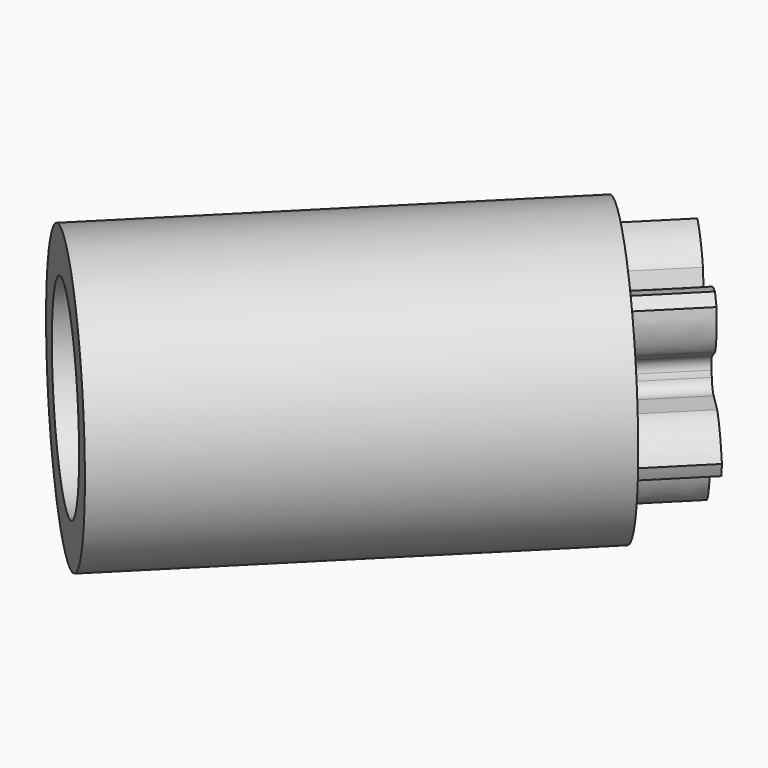
from build123d import *

# Parameters (mm, degrees)
PAD032_DEPTH            = 1.5
SKETCH052_R             = 3
PAD033_DEPTH            = 1.5
SKETCH053_R             = 3
SKETCH053_R_2           = 2.1
PAD034_DEPTH            = 8
BODY020_PITCH_ANGLE     = 90
BODY020_PLACEMENT_ANGLE = 45


with BuildPart() as part:
    # InvoluteGear005 → Pad032 (new body)
    with BuildSketch(Plane.XY):
        with BuildLine():
            Line((1.110631, -0.379257), (1.611002, -0.549274))
            add(Edge.make_bspline(
                [(1.611002, -0.549274), (1.657084, -0.555348), (1.841436, -0.576411), (2.183492, -0.491872), (2.515793, -0.147021)],
                knots=[0, 0, 0, 0, 0, 1, 1, 1, 1, 1], degree=4))
            ThreePointArc((2.515793, -0.147021), (2.520042, 0.0016), (2.515519, 0.150213))
            add(Edge.make_bspline(
                [(2.515519, 0.150213), (2.183492, 0.491872), (1.841436, 0.576411), (1.657084, 0.555348), (1.611002, 0.549274)],
                knots=[0, 0, 0, 0, 0, 1, 1, 1, 1, 1], degree=4))
            Line((1.611002, 0.549274), (1.110631, 0.379257))
            ThreePointArc((1.110631, 0.379257), (0.918725, 0.36265), (0.763436, 0.476619))
            ThreePointArc((0.763436, 0.476619), (0.728115, 0.529007), (0.689206, 0.578787))
            ThreePointArc((0.689206, 0.578787), (0.628802, 0.761694), (0.703899, 0.939076))
            Line((0.703899, 0.939076), (1.020218, 1.362419))
            add(Edge.make_bspline(
                [(1.020218, 1.362419), (1.040234, 1.404369), (1.117234, 1.573189), (1.142534, 1.924628), (0.917248, 2.34723)],
                knots=[0, 0, 0, 0, 0, 1, 1, 1, 1, 1], degree=4))
            ThreePointArc((0.917248, 2.34723), (0.777214, 2.397197), (0.634477, 2.438819))
            add(Edge.make_bspline(
                [(0.634477, 2.438819), (0.206938, 2.228621), (0.020836, 1.92943), (-0.0161, 1.747593), (-0.024564, 1.701889)],
                knots=[0, 0, 0, 0, 0, 1, 1, 1, 1, 1], degree=4))
            Line((-0.024564, 1.701889), (-0.017491, 1.17347))
            ThreePointArc((-0.017491, 1.17347), (-0.060999, 0.985824), (-0.217377, 0.873354))
            ThreePointArc((-0.217377, 0.873354), (-0.278115, 0.855951), (-0.337483, 0.834329))
            ThreePointArc((-0.337483, 0.834329), (-0.530104, 0.833403), (-0.675598, 0.959638))
            Line((-0.675598, 0.959638), (-0.980473, 1.391296))
            add(Edge.make_bspline(
                [(-0.980473, 1.391296), (-1.014184, 1.423295), (-1.150947, 1.548695), (-1.477367, 1.681357), (-1.948903, 1.597689)],
                knots=[0, 0, 0, 0, 0, 1, 1, 1, 1, 1], degree=4))
            ThreePointArc((-1.948903, 1.597689), (-2.039698, 1.479949), (-2.123391, 1.35706))
            add(Edge.make_bspline(
                [(-2.123391, 1.35706), (-2.055597, 0.885492), (-1.828559, 0.616043), (-1.667035, 0.524724), (-1.626183, 0.502551)],
                knots=[0, 0, 0, 0, 0, 1, 1, 1, 1, 1], degree=4))
            Line((-1.626183, 0.502551), (-1.121441, 0.345987))
            ThreePointArc((-1.121441, 0.345987), (-0.956425, 0.246623), (-0.897782, 0.063143))
            ThreePointArc((-0.897782, 0.063143), (-0.9, 0), (-0.897782, -0.063143))
            ThreePointArc((-0.897782, -0.063143), (-0.956425, -0.246623), (-1.121441, -0.345987))
            Line((-1.121441, -0.345987), (-1.626183, -0.502551))
            add(Edge.make_bspline(
                [(-1.626183, -0.502551), (-1.667035, -0.524724), (-1.828559, -0.616043), (-2.055597, -0.885492), (-2.121736, -1.359804)],
                knots=[0, 0, 0, 0, 0, 1, 1, 1, 1, 1], degree=4))
            ThreePointArc((-2.121736, -1.359804), (-2.037816, -1.482538), (-1.946804, -1.60011))
            add(Edge.make_bspline(
                [(-1.946804, -1.60011), (-1.477367, -1.681357), (-1.150947, -1.548695), (-1.014184, -1.423295), (-0.980473, -1.391296)],
                knots=[0, 0, 0, 0, 0, 1, 1, 1, 1, 1], degree=4))
            Line((-0.980473, -1.391296), (-0.675598, -0.959638))
            ThreePointArc((-0.675598, -0.959638), (-0.530104, -0.833403), (-0.337483, -0.834329))
            ThreePointArc((-0.337483, -0.834329), (-0.278115, -0.855951), (-0.217377, -0.873354))
            ThreePointArc((-0.217377, -0.873354), (-0.060999, -0.985824), (-0.017491, -1.17347))
            Line((-0.017491, -1.17347), (-0.024564, -1.701889))
            add(Edge.make_bspline(
                [(-0.024564, -1.701889), (-0.0161, -1.747593), (0.020836, -1.92943), (0.206938, -2.228621), (0.637598, -2.438094)],
                knots=[0, 0, 0, 0, 0, 1, 1, 1, 1, 1], degree=4))
            ThreePointArc((0.637598, -2.438094), (0.780258, -2.396208), (0.9202, -2.345982))
            add(Edge.make_bspline(
                [(0.9202, -2.345982), (1.142534, -1.924628), (1.117234, -1.573189), (1.040234, -1.404369), (1.020218, -1.362419)],
                knots=[0, 0, 0, 0, 0, 1, 1, 1, 1, 1], degree=4))
            Line((1.020218, -1.362419), (0.703899, -0.939076))
            ThreePointArc((0.703899, -0.939076), (0.628802, -0.761694), (0.689206, -0.578787))
            ThreePointArc((0.689206, -0.578787), (0.728115, -0.529007), (0.763436, -0.476619))
            ThreePointArc((0.763436, -0.476619), (0.918725, -0.36265), (1.110631, -0.379257))
        make_face()
    extrude(amount=PAD032_DEPTH)

    # Sketch052 (on Face41 of Pad032) → Pad033 (join)
    with BuildSketch(Plane(origin=(0, 0, 0), x_dir=(1, 0, 0), z_dir=(0, 0, -1))):
        Circle(SKETCH052_R)
    extrude(amount=PAD033_DEPTH)

    # Sketch053 (on Face3 of Pad033) → Pad034 (join)
    with BuildSketch(Plane(origin=(0, 0, -1.5), x_dir=(1, 0, 0), z_dir=(0, 0, -1))):
        Circle(SKETCH053_R)
        Circle(SKETCH053_R_2, mode=Mode.SUBTRACT)
    extrude(amount=PAD034_DEPTH)


with BuildPart() as part_1:
    # Body020 pitch: moved
    add(part.part.rotate(Axis((0, 0, 0), (0, 1, 0)), BODY020_PITCH_ANGLE))


with BuildPart() as part_2:
    # Body020 placement: moved
    add(part_1.part.moved(Location((50, 42.990236, 0))).rotate(Axis((50, 42.990236, 0), (0, 0, 1)), BODY020_PLACEMENT_ANGLE))


solid = part_2.part
